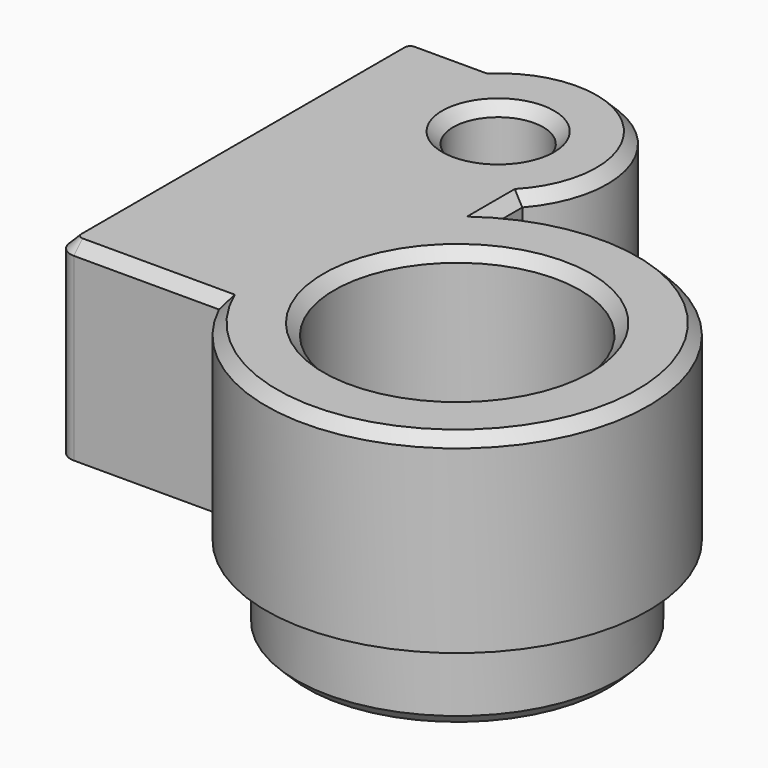
from build123d import *

# Parameters (mm, degrees)
CYLINDER004_R     = 4.5
CYLINDER004_DEPTH = 12
CYLINDER_R        = 1.65
CYLINDER_DEPTH    = 8
BOX_W             = 8.74
BOX_H             = 16
BOX_DEPTH         = 7
FILLET012_R       = 0.6
FILLET013_R       = 3
CYLINDER006_R     = 4
CYLINDER006_DEPTH = 7
CYLINDER003_R     = 5.9
CYLINDER003_DEPTH = 10
CYLINDER002_R     = 7
CYLINDER002_DEPTH = 7
CHAMFER010_SIZE   = 0.4


with BuildPart() as cylinder004:
    # Cylinder004 → Cylinder004 (new body)
    with BuildSketch(Plane(origin=(6.5, 0, -3), x_dir=(1, 0, 0), z_dir=(0, 0, 1))):
        Circle(CYLINDER004_R)
    extrude(amount=CYLINDER004_DEPTH)


with BuildPart() as cylinder:
    # Cylinder → Cylinder (new body)
    with BuildSketch(Plane(origin=(0, 10, 0), x_dir=(1, 0, 0), z_dir=(0, 0, 1))):
        Circle(CYLINDER_R)
    extrude(amount=CYLINDER_DEPTH)


with BuildPart() as fillet013:
    # Box → Box (new body)
    with BuildSketch(Plane(origin=(-5.74, -3, 0), x_dir=(1, 0, 0), z_dir=(0, 0, 1))):
        with Locations((4.37, 8)):
            Rectangle(BOX_W, BOX_H)
    extrude(amount=BOX_DEPTH)

    # Fillet012
    fillet012_edges = [fillet013.edges().sort_by_distance(p)[0] for p in [
        (-5.74, -3, 3.5),
        (-5.74, 13, 3.5),
    ]]
    fillet(fillet012_edges, radius=FILLET012_R)

    # Fillet013
    fillet013_edges = [fillet013.edges().sort_by_distance(p)[0] for p in [
        (3, 13, 3.5),
    ]]
    fillet(fillet013_edges, radius=FILLET013_R)


with BuildPart() as cut002:
    # Cylinder006 → Cylinder006 (new body)
    with BuildSketch(Plane(origin=(0, 10, 0), x_dir=(1, 0, 0), z_dir=(0, 0, 1))):
        Circle(CYLINDER006_R)
    extrude(amount=CYLINDER006_DEPTH)

    # Fusion001: union Fillet013
    add(fillet013.part)

    # Cut002: cut Cylinder
    add(cylinder.part, mode=Mode.SUBTRACT)


with BuildPart() as cylinder003:
    # Cylinder003 → Cylinder003 (new body)
    with BuildSketch(Plane(origin=(6.5, 0, -3), x_dir=(1, 0, 0), z_dir=(0, 0, 1))):
        Circle(CYLINDER003_R)
    extrude(amount=CYLINDER003_DEPTH)


with BuildPart() as endstop_flag:
    # Cylinder002 → Cylinder002 (new body)
    with BuildSketch(Plane(origin=(6.5, 0, 0), x_dir=(1, 0, 0), z_dir=(0, 0, 1))):
        Circle(CYLINDER002_R)
    extrude(amount=CYLINDER002_DEPTH)

    # Fusion: union Cylinder003
    add(cylinder003.part)

    # Fusion002: union Cut002
    add(cut002.part)

    # Cut003: cut Cylinder004
    add(cylinder004.part, mode=Mode.SUBTRACT)

    # Chamfer010
    chamfer010_edges = [endstop_flag.edges().sort_by_distance(p)[0] for p in [
        (-2.482278, -3, 7),
        (-5.564264, -2.824264, 7),
        (-5.74, 5, 7),
        (-5.564264, 12.824264, 7),
        (-3.892876, 13, 7),
        (-1.65, 10, 0),
        (3, 6.708213, 7),
        (0.6, 0, -3),
        (8, 4.242641, 7),
        (2, 0, 7),
        (8, -4.242641, 7),
        (-1.65, 10, 7),
        (8.037549, -6.829051, 7),
        (10, 6.062178, 7),
        (3.741657, 8.585786, 7),
        (1.645751, 13.645751, 7),
    ]]
    chamfer(chamfer010_edges, length=CHAMFER010_SIZE)


solid = endstop_flag.part
